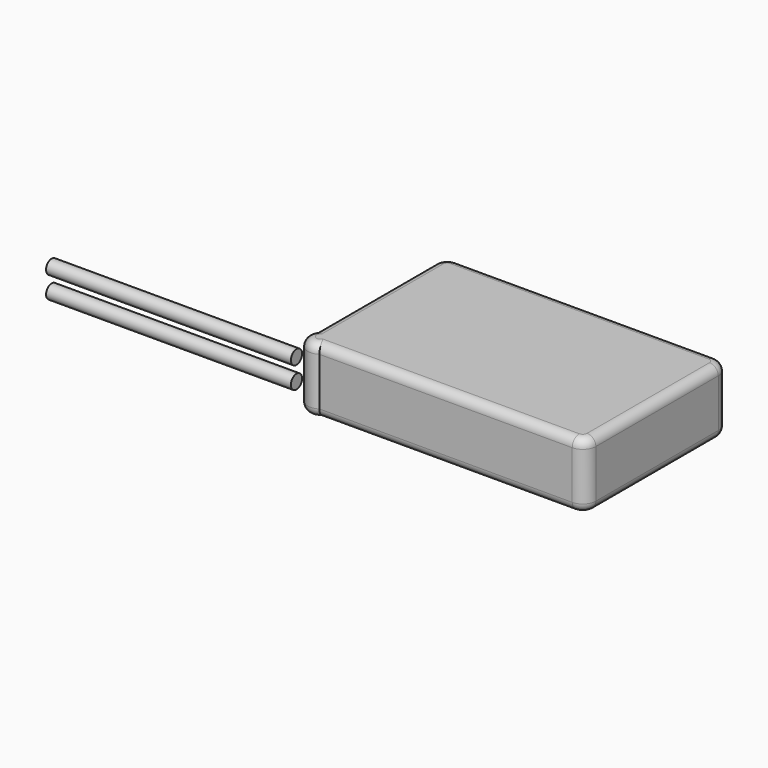
from build123d import *

# Parameters (mm, degrees)
F1_DEPTH = 7.5
F2_R     = 1
F4_R     = 0.8
F5_DEPTH = 28


with BuildPart() as f1:
    # F0 (on Top) → F1 (new body)
    with BuildSketch(Plane.XY):
        with BuildLine():
            ThreePointArc((16.25, 8.75), (15.8106601718, 9.8106601718), (14.75, 10.25))
            Line((14.75, 10.25), (-14.75, 10.25))
            ThreePointArc((-14.75, 10.25), (-15.8106601718, 9.8106601718), (-16.25, 8.75))
            Line((-16.25, 8.75), (-16.25, -8.1708438024))
            ThreePointArc((-16.25, -8.1708438024), (-16.0606601718, -10.0606601718), (-14.1708438024, -10.25))
            Line((-14.1708438024, -10.25), (14.75, -10.25))
            ThreePointArc((14.75, -10.25), (15.8106601718, -9.8106601718), (16.25, -8.75))
            Line((16.25, -8.75), (16.25, 8.75))
        make_face()
    extrude(amount=F1_DEPTH)

    # F2
    f2_edges = [f1.edges().sort_by_distance(p)[0] for p in [
        (15.81066, 9.81066, 7.5),
        (0, 10.25, 7.5),
        (-15.81066, 9.81066, 7.5),
        (-16.25, 0.289578, 7.5),
        (-16.06066, -10.06066, 7.5),
        (0.289578, -10.25, 7.5),
        (15.81066, -9.81066, 7.5),
        (16.25, 0, 7.5),
        (15.81066, 9.81066, 0),
        (0, 10.25, 0),
        (-15.81066, 9.81066, 0),
        (-16.25, 0.289578, 0),
        (-16.06066, -10.06066, 0),
        (0.289578, -10.25, 0),
        (15.81066, -9.81066, 0),
        (16.25, 0, 0),
    ]]
    fillet(f2_edges, radius=F2_R)


with BuildPart() as f5:
    # F4 (on offset) → F5 (new body)
    with BuildSketch(Plane(origin=(-17.25, 0, 0), x_dir=(0, -1, 0), z_dir=(-1, 0, 0))):
        with Locations((9.6708438024, 2.5062605273)):
            Circle(F4_R)
    extrude(amount=F5_DEPTH)


with BuildPart() as f5b:
    # F4 (on offset) → F5, piece 2 (new body)
    with BuildSketch(Plane(origin=(-17.25, 0, 0), x_dir=(0, -1, 0), z_dir=(-1, 0, 0))):
        with Locations((9.6708438024, 4.9937394727)):
            Circle(F4_R)
    extrude(amount=F5_DEPTH)


solid = Compound([f1.part, f5.part, f5b.part])
